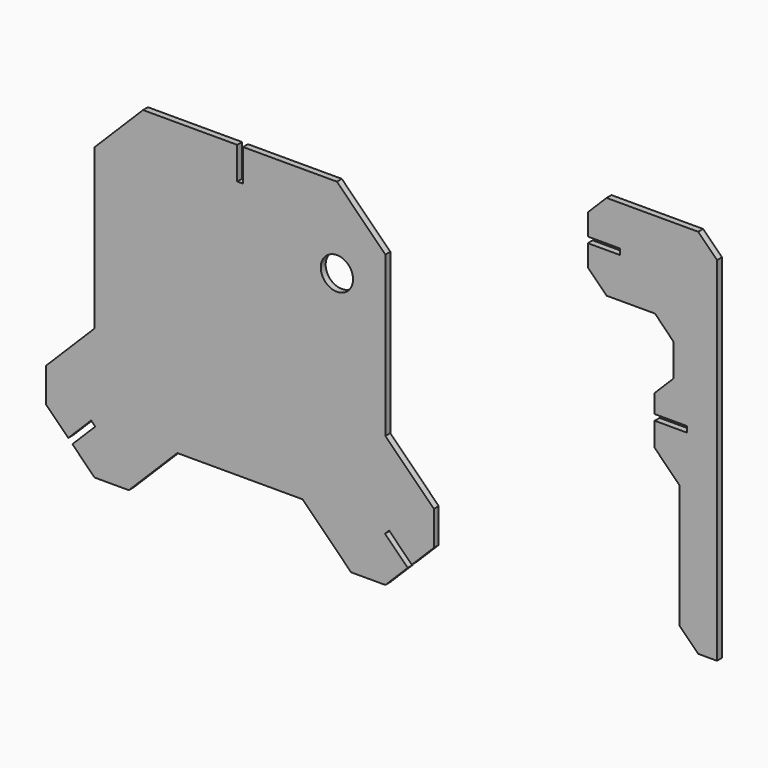
from build123d import *

# Parameters (mm, degrees)
F1_DEPTH = 4.826
F3_DEPTH = 4.826
F4_W     = 4.572
F4_H     = 25.4
F4_W_2   = 25.4
F4_H_2   = 4.572
F5_DEPTH = 4.826
F6_R     = 12.7
F7_DEPTH = 4.827


with BuildPart() as f1:
    # F0 (on Front) → F1 (new body)
    with BuildSketch(Plane.XZ):
        Polygon((114.3, 95.25), (76.2, 133.35), (-76.2, 133.35), (-114.3, 95.25), (-114.3, -30.209232), (-152.4, -68.309232), (-152.4, -95.25), (-114.3, -133.35), (-87.359232, -133.35), (-49.259232, -95.25), (49.259232, -95.25), (87.359232, -133.35), (114.3, -133.35), (152.4, -95.25), (152.4, -68.309232), (114.3, -30.209232), align=None)
    extrude(amount=F1_DEPTH)


with BuildPart() as f3:
    # F2 (on Front) → F3 (new body)
    with BuildSketch(Plane.XZ):
        Polygon((374.99113, 176.2596), (360.204472, 191.046258), (288.177788, 191.046258), (273.39113, 176.2596), (273.39113, 138.1596), (288.17393, 123.3768), (326.27393, 123.3768), (340.831323, 108.594), (340.831323, 83.194), (326.048523, 68.4112), (326.048523, 30.3112), (345.42553, 10.934193), (345.42553, -86.270942), (360.20833, -101.053742), (374.99113, -101.053742), align=None)
    extrude(amount=F3_DEPTH)


with BuildPart() as f5_tool:
    # F4 (on Front) → F5 (new body, through all)
    with BuildSketch(Plane.XZ):
        with Locations((0.127, 120.65)):
            Rectangle(F4_W, F4_H)
        Polygon((-134.966446, -112.683554), (-131.733554, -115.916446), (-113.773042, -97.955934), (-117.005934, -94.723042), align=None)
        Polygon((114.027042, -97.955934), (131.860554, -115.789446), (135.093446, -112.556554), (117.259934, -94.723042), align=None)
        Polygon((135.093446, -112.556554), (131.860554, -115.789446), (131.987554, -115.916446), (135.220446, -112.683554), align=None)
        with Locations((286.09113, 157.2096)):
            Rectangle(F4_W_2, F4_H_2)
        with Locations((338.748523, 51.444)):
            Rectangle(F4_W_2, F4_H_2)
    extrude(amount=F5_DEPTH)


with BuildPart() as f1_1:
    add(f1.part)

    # F5: cut by f5_tool
    add(f5_tool.part, mode=Mode.SUBTRACT)

    # F6 (on face) → F7 (cut, through all)
    with BuildSketch(Plane.XZ.offset(4.826)):
        with Locations((76.2, 69.85)):
            Circle(F6_R)
    extrude(amount=-F7_DEPTH, mode=Mode.SUBTRACT)


with BuildPart() as f3_1:
    add(f3.part)

    # F5: cut by f5_tool
    add(f5_tool.part, mode=Mode.SUBTRACT)


solid = Compound([f1_1.part, f3_1.part])
